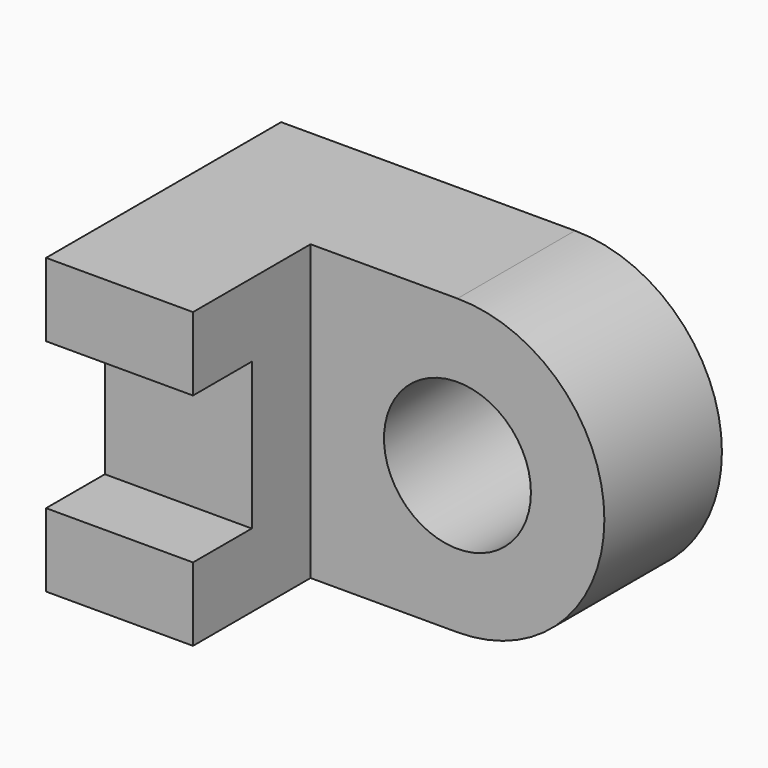
from build123d import *

# Parameters (mm, degrees)
F0_R     = 6.35
F1_DEPTH = 12.7
F3_DEPTH = 12.7


with BuildPart() as f1:
    # F0 (on Front) → F1 (new body)
    with BuildSketch(Plane.XZ):
        with BuildLine():
            Line((0, 25.4), (0, 0))
            Line((0, 0), (25.4, 0))
            ThreePointArc((25.4, 0), (38.1, 12.7), (25.4, 25.4))
            Line((25.4, 25.4), (0, 25.4))
        make_face()
        with Locations((25.4, 12.7)):
            Circle(F0_R, mode=Mode.SUBTRACT)
    extrude(amount=-F1_DEPTH)

    # F2 (on Right) → F3 (join)
    with BuildSketch(Plane.YZ):
        Polygon((-12.7, 0), (0, 0), (0, 25.4), (-12.7, 25.4), (-12.7, 19.05), (-6.35, 19.05), (-6.35, 6.35), (-12.7, 6.35), align=None)
    extrude(amount=F3_DEPTH)


solid = f1.part
